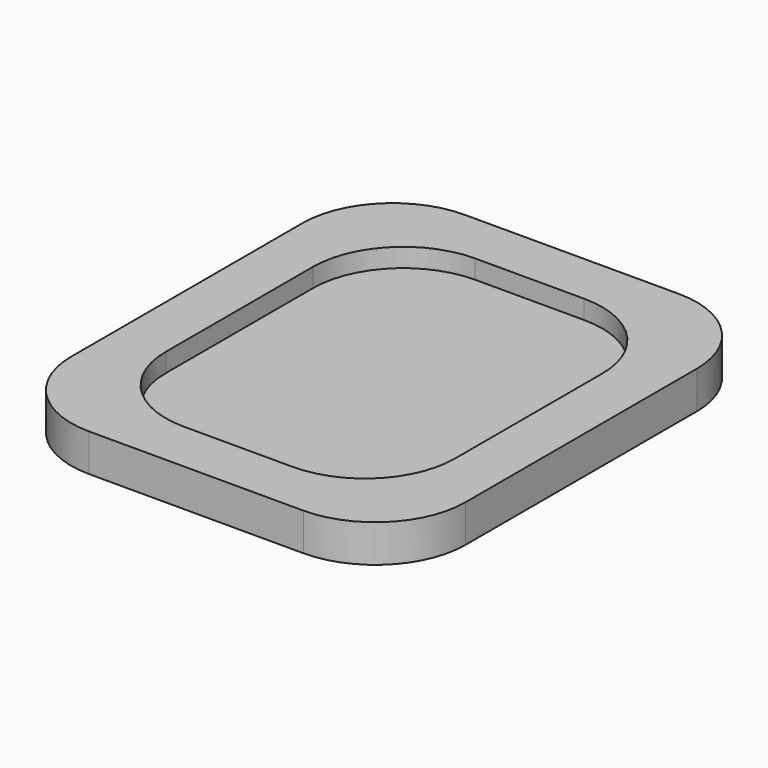
from build123d import *

# Parameters (mm, degrees)
F1_DEPTH = 5
F2_W     = 38.5
F2_H     = 48.5
F3_DEPTH = 2.5
F4_R     = 12


with BuildPart() as f1:
    # F0 (on Top) → F1 (new body)
    with BuildSketch(Plane.XY):
        with BuildLine():
            Line((40.5, 0), (12, 0))
            ThreePointArc((12, 0), (3.514719, -3.514719), (0, -12))
            Line((0, -12), (0, -50.5))
            ThreePointArc((0, -50.5), (3.514719, -58.985281), (12, -62.5))
            Line((12, -62.5), (40.5, -62.5))
            ThreePointArc((40.5, -62.5), (48.985281, -58.985281), (52.5, -50.5))
            Line((52.5, -50.5), (52.5, -12))
            ThreePointArc((52.5, -12), (48.985281, -3.514719), (40.5, 0))
        make_face()
    extrude(amount=F1_DEPTH)

    # F2 (on face) → F3 (cut)
    with BuildSketch(Plane.XY.offset(5)):
        with Locations((26.25, -31.25)):
            Rectangle(F2_W, F2_H)
    extrude(amount=-F3_DEPTH, mode=Mode.SUBTRACT)

    # F4
    f4_edges = [f1.edges().sort_by_distance(p)[0] for p in [
        (7, -7, 3.75),
        (45.5, -7, 3.75),
        (7, -55.5, 3.75),
        (45.5, -55.5, 3.75),
    ]]
    fillet(f4_edges, radius=F4_R)


solid = f1.part
